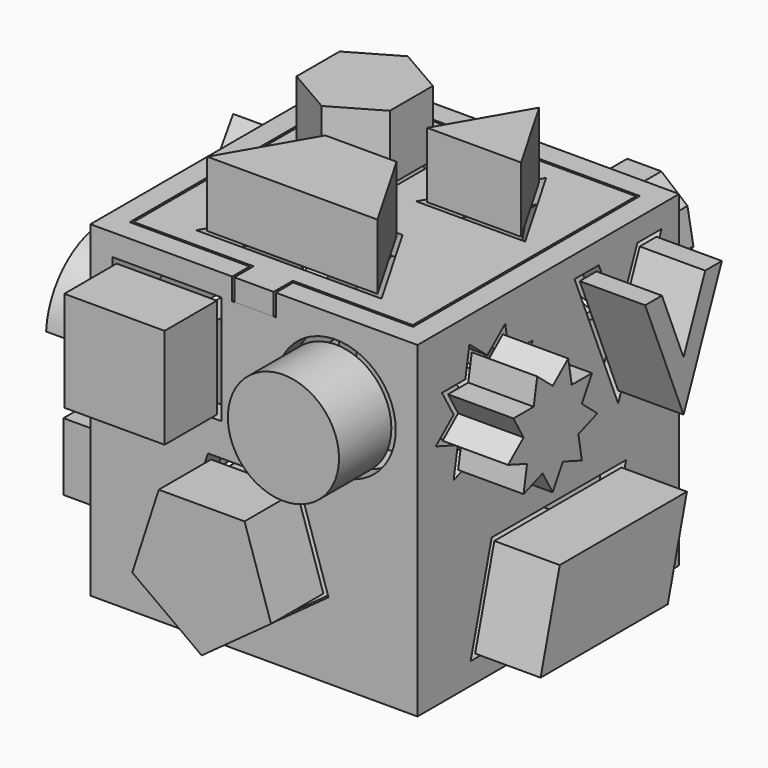
from build123d import *

# Parameters (mm, degrees)
F0_W      = 150
F0_H      = 150
F1_DEPTH  = 150
F2_T      = -10
F3_W      = 1
F3_H      = 10
F5_DEPTH  = 10
F6_DEPTH  = 10
F7_DEPTH  = 25
F8_DEPTH  = 30
F9_W      = 50
F9_H      = 50
F9_W_2    = 46
F9_H_2    = 46
F9_R      = 27.5
F9_R_2    = 25.5
F10_DEPTH = 25
F11_DEPTH = 30
F12_W     = 110
F12_H     = 35
F12_W_2   = 106
F12_H_2   = 31
F13_DEPTH = 25
F14_DEPTH = 30
F16_DEPTH = 25
F17_DEPTH = 30
F19_DEPTH = 25
F20_DEPTH = 30


with BuildPart() as f1:
    # F0 (on Top) → F1 (new body)
    with BuildSketch(Plane.XY):
        with Locations((-75, 75)):
            Rectangle(F0_W, F0_H)
    extrude(amount=F1_DEPTH)

    # F2
    f2_openings = [f1.faces().sort_by_distance(p)[0] for p in [
        (-75, 75, 150),
    ]]
    offset(amount=F2_T, openings=f2_openings)

    # F3 (on face) → F5 (cut)
    with BuildSketch(Plane.XY.offset(150)):
        with Locations((-65.5, 145)):
            Rectangle(F3_W, F3_H)
        Polygon((-75, 140), (-66, 140), (-66, 150), (-84, 150), (-84, 140), align=None)
        with Locations((-84.5, 145)):
            Rectangle(F3_W, F3_H)
        Polygon((-85, 10), (-84, 10), (-84, 11), (-139, 11), (-139, 139), (-84, 139), (-84, 140), (-85, 140), (-140, 140), (-140, 10), align=None)
        Polygon((-75, 10), (-66, 10), (-66, 11), (-11, 11), (-11, 139), (-66, 139), (-66, 140), (-75, 140), (-84, 140), (-84, 139), (-139, 139), (-139, 11), (-84, 11), (-84, 10), align=None)
        Polygon((-65, 10), (-10, 10), (-10, 140), (-65, 140), (-66, 140), (-66, 139), (-11, 139), (-11, 11), (-66, 11), (-66, 10), align=None)
        with Locations((-84.5, 5)):
            Rectangle(F3_W, F3_H)
        Polygon((-66, 0), (-66, 10), (-75, 10), (-84, 10), (-84, 0), align=None)
        with Locations((-65.5, 5)):
            Rectangle(F3_W, F3_H)
    extrude(amount=-F5_DEPTH, mode=Mode.SUBTRACT)

    # F9 (on face) → F10 (cut)
    with BuildSketch(Plane.XZ):
        with Locations((-115, 115)):
            Rectangle(F9_W, F9_H)
        with Locations((-115, 115)):
            Rectangle(F9_W_2, F9_H_2, mode=Mode.SUBTRACT)
        with Locations((-115, 115)):
            Rectangle(F9_W_2, F9_H_2)
        with Locations((-37.5, 112.5)):
            Circle(F9_R)
        with Locations((-37.5, 112.5)):
            Circle(F9_R_2, mode=Mode.SUBTRACT)
        with Locations((-37.5, 112.5)):
            Circle(F9_R_2)
        Polygon((-40.8274777123, 34.8277907313), (-53.8802197449, 75), (-96.1197802551, 75), (-109.1725222877, 34.8277907313), (-75, 10), align=None)
        Polygon((-94.6666951991, 73), (-55.3333048009, 73), (-43.1786187214, 35.5917227538), (-75, 12.472135955), (-106.8213812786, 35.5917227538), align=None, mode=Mode.SUBTRACT)
        Polygon((-43.1786187214, 35.5917227538), (-55.3333048009, 73), (-94.6666951991, 73), (-106.8213812786, 35.5917227538), (-75, 12.472135955), align=None)
    extrude(amount=-F10_DEPTH, mode=Mode.SUBTRACT)

    # F12 (on face) → F13 (cut)
    with BuildSketch(Plane(origin=(-150, 0, 0), x_dir=(0, -1, 0), z_dir=(-1, 0, 0))):
        with Locations((-75, 37.5)):
            Rectangle(F12_W, F12_H)
        with Locations((-75, 37.5)):
            Rectangle(F12_W_2, F12_H_2, mode=Mode.SUBTRACT)
        with Locations((-75, 37.5)):
            Rectangle(F12_W_2, F12_H_2)
        with BuildLine():
            Line((-80, 90), (-10, 90))
            ThreePointArc((-10, 90), (-45, 125), (-80, 90))
        make_face()
        with BuildLine():
            ThreePointArc((-77.939338184, 92), (-45, 123), (-12.060661816, 92))
            Line((-12.060661816, 92), (-77.939338184, 92))
        make_face(mode=Mode.SUBTRACT)
        with BuildLine():
            Line((-77.939338184, 92), (-12.060661816, 92))
            ThreePointArc((-12.060661816, 92), (-45, 123), (-77.939338184, 92))
        make_face()
        Polygon((-98.5904330475, 107.5), (-119.2952165238, 140), (-140, 107.5), (-119.2952165238, 75), align=None)
        Polygon((-137.6286219051, 107.5), (-119.2952165238, 136.2776820066), (-100.9618111424, 107.5), (-119.2952165238, 78.7223179934), align=None, mode=Mode.SUBTRACT)
        Polygon((-100.9618111424, 107.5), (-119.2952165238, 136.2776820066), (-137.6286219051, 107.5), (-119.2952165238, 78.7223179934), align=None)
    extrude(amount=-F13_DEPTH, mode=Mode.SUBTRACT)

    # F15 (on face) → F16 (cut)
    with BuildSketch(Plane(origin=(0, 150, 0), x_dir=(-1, 0, 0), z_dir=(0, 1, 0))):
        Polygon((48.5505035831, 138.4923155196), (31.4494964169, 138.4923155196), (18.3493649054, 127.5), (15.3798061747, 110.6587955583), (23.9303097578, 95.848888922), (40, 90), (56.0696902422, 95.848888922), (64.6201938253, 110.6587955583), (61.6506350946, 127.5), align=None)
        Polygon((25.2983903311, 97.4793038602), (17.4758272165, 111.0283806201), (20.1925748756, 126.4358222275), (32.1774368854, 136.4923155196), (47.8225631146, 136.4923155196), (59.8074251244, 126.4358222275), (62.5241727835, 111.0283806201), (54.7016096689, 97.4793038602), (40, 92.128355545), align=None, mode=Mode.SUBTRACT)
        Polygon((20.1925748756, 126.4358222275), (17.4758272165, 111.0283806201), (25.2983903311, 97.4793038602), (40, 92.128355545), (54.7016096689, 97.4793038602), (62.5241727835, 111.0283806201), (59.8074251244, 126.4358222275), (47.8225631146, 136.4923155196), (32.1774368854, 136.4923155196), align=None)
        Polygon((135, 130), (95, 130), (135, 72.8740797303), align=None)
        Polygon((133, 79.217269335), (98.8419642539, 128), (133, 128), align=None, mode=Mode.SUBTRACT)
        Polygon((82.8579895901, 56.7467110956), (75, 80.9311162925), (67.1420104099, 56.7467110956), (41.7130219297, 56.7467110956), (62.2855057599, 41.7999266863), (54.4275161698, 17.6155214894), (75, 32.5623058987), (95.5724838302, 17.6155214894), (87.7144942401, 41.7999266863), (108.2869780703, 56.7467110956), align=None)
        Polygon((68.5950954659, 54.7467110956), (75, 74.4589803375), (81.4049045341, 54.7467110956), (102.131610996, 54.7467110956), (85.3633532309, 42.5638587088), (91.7682577651, 22.8515894669), (75, 35.0344418537), (58.2317422349, 22.8515894669), (64.6366467691, 42.5638587088), (47.868389004, 54.7467110956), align=None, mode=Mode.SUBTRACT)
        Polygon((81.4049045341, 54.7467110956), (75, 74.4589803375), (68.5950954659, 54.7467110956), (47.868389004, 54.7467110956), (64.6366467691, 42.5638587088), (58.2317422349, 22.8515894669), (75, 35.0344418537), (91.7682577651, 22.8515894669), (85.3633532309, 42.5638587088), (102.131610996, 54.7467110956), align=None)
        Polygon((133, 128), (98.8419642539, 128), (133, 79.217269335), align=None)
    extrude(amount=-F16_DEPTH, mode=Mode.SUBTRACT)

    # F18 (on face) → F19 (cut)
    with BuildSketch(Plane.YZ):
        Polygon((40, 129.58110934), (29.7393957002, 138.1907786236), (27.4135055323, 125), (14.0192378865, 125), (20.7163717094, 113.4002239536), (10.4557674096, 104.79055467), (23.0422618773, 100.20944533), (20.7163717094, 87.0186667064), (33.3028661771, 91.5997760464), (40, 80), (46.6971338229, 91.5997760464), (59.2836282906, 87.0186667064), (56.9577381227, 100.20944533), (69.5442325904, 104.79055467), (59.2836282906, 113.4002239536), (65.9807621135, 125), (52.5864944677, 125), (50.2606042998, 138.1907786236), align=None)
        Polygon((17.4833395016, 123), (29.0917047947, 123), (31.1074762735, 134.4320081404), (40, 126.9702947613), (48.8925237265, 134.4320081404), (50.9082952053, 123), (62.5166604984, 123), (56.7124778519, 112.9468607598), (65.6050015783, 105.4851473807), (54.696706373, 101.5148526193), (56.7124778519, 90.0828444789), (45.8041826465, 94.0531392402), (40, 84), (34.1958173535, 94.0531392402), (23.2875221481, 90.0828444789), (25.303293627, 101.5148526193), (14.3949984217, 105.4851473807), (23.2875221482, 112.9468607598), align=None, mode=Mode.SUBTRACT)
        Polygon((31.1074762735, 134.4320081404), (29.0917047947, 123), (17.4833395016, 123), (23.2875221482, 112.9468607598), (14.3949984217, 105.4851473807), (25.303293627, 101.5148526193), (23.2875221481, 90.0828444789), (34.1958173535, 94.0531392402), (40, 84), (45.8041826465, 94.0531392402), (56.7124778519, 90.0828444789), (54.696706373, 101.5148526193), (65.6050015783, 105.4851473807), (56.7124778519, 112.9468607598), (62.5166604984, 123), (50.9082952053, 123), (48.8925237265, 134.4320081404), (40, 126.9702947613), align=None)
        Polygon((103.9303890065, 140), (90, 140), (115, 79.6446609407), (140, 140), (126.0696109935, 140), (115, 113.2755950093), align=None)
        Polygon((115, 108.0493431498), (127.4059682693, 138), (137.0067884747, 138), (115, 84.8709128002), (92.9932115253, 138), (102.5940317307, 138), align=None, mode=Mode.SUBTRACT)
        Polygon((137.0067884747, 138), (127.4059682693, 138), (115, 108.0493431498), (102.5940317307, 138), (92.9932115253, 138), (115, 84.8709128002), align=None)
        Polygon((42.5, 55), (30.4422863406, 10), (107.5, 10), (119.5577136594, 55), align=None)
        Polygon((33.0487370863, 12), (44.034653976, 53), (116.9512629137, 53), (105.965346024, 12), align=None, mode=Mode.SUBTRACT)
        Polygon((116.9512629137, 53), (44.034653976, 53), (33.0487370863, 12), (105.965346024, 12), align=None)
    extrude(amount=-F19_DEPTH, mode=Mode.SUBTRACT)


with BuildPart() as f6:
    # F3 (on face) → F6 (new body)
    with BuildSketch(Plane.XY.offset(150)):
        Polygon((-75, 140), (-66, 140), (-66, 150), (-84, 150), (-84, 140), align=None)
        Polygon((-75, 10), (-66, 10), (-66, 11), (-11, 11), (-11, 139), (-66, 139), (-66, 140), (-75, 140), (-84, 140), (-84, 139), (-139, 139), (-139, 11), (-84, 11), (-84, 10), align=None)
        Polygon((-66, 0), (-66, 10), (-75, 10), (-84, 10), (-84, 0), align=None)
    extrude(amount=-F6_DEPTH)

    # F4 (on face) → F7 (cut)
    with BuildSketch(Plane.XY.offset(150)):
        Polygon((-92.5, 63.3012701892), (-117.5, 20), (-32.5, 20), (-57.5, 63.3012701892), align=None)
        Polygon((-114.0358983849, 22), (-91.3452994616, 61.3012701892), (-58.6547005384, 61.3012701892), (-35.9641016151, 22), align=None, mode=Mode.SUBTRACT)
        Polygon((-58.6547005384, 61.3012701892), (-91.3452994616, 61.3012701892), (-114.0358983849, 22), (-35.9641016151, 22), align=None)
        Polygon((-83.2346281956, 116.5), (-106.6173140978, 130), (-130, 116.5), (-130, 89.5), (-106.6173140978, 76), (-83.2346281956, 89.5), align=None)
        Polygon((-106.6173140978, 78.3094010768), (-128, 90.6547005384), (-128, 115.3452994616), (-106.6173140978, 127.6905989232), (-85.2346281956, 115.3452994616), (-85.2346281956, 90.6547005384), align=None, mode=Mode.SUBTRACT)
        Polygon((-128, 115.3452994616), (-128, 90.6547005384), (-106.6173140978, 78.3094010768), (-85.2346281956, 90.6547005384), (-85.2346281956, 115.3452994616), (-106.6173140978, 127.6905989232), align=None)
        Polygon((-20, 86.6987298108), (-45, 130), (-70, 86.6987298108), align=None)
        Polygon((-23.4641016151, 88.6987298108), (-66.5358983849, 88.6987298108), (-45, 126), align=None, mode=Mode.SUBTRACT)
        Polygon((-45, 126), (-66.5358983849, 88.6987298108), (-23.4641016151, 88.6987298108), align=None)
    extrude(amount=-F7_DEPTH, mode=Mode.SUBTRACT)


with BuildPart() as f8:
    # F4 (on face) → F8 (new body)
    with BuildSketch(Plane.XY.offset(150)):
        Polygon((-58.6547005384, 61.3012701892), (-91.3452994616, 61.3012701892), (-114.0358983849, 22), (-35.9641016151, 22), align=None)
    extrude(amount=F8_DEPTH)


with BuildPart() as f8b:
    # F4 (on face) → F8, piece 2 (new body)
    with BuildSketch(Plane.XY.offset(150)):
        Polygon((-45, 126), (-66.5358983849, 88.6987298108), (-23.4641016151, 88.6987298108), align=None)
    extrude(amount=F8_DEPTH)


with BuildPart() as f8c:
    # F4 (on face) → F8, piece 3 (new body)
    with BuildSketch(Plane.XY.offset(150)):
        Polygon((-128, 115.3452994616), (-128, 90.6547005384), (-106.6173140978, 78.3094010768), (-85.2346281956, 90.6547005384), (-85.2346281956, 115.3452994616), (-106.6173140978, 127.6905989232), align=None)
    extrude(amount=F8_DEPTH)


with BuildPart() as f11:
    # F9 (on face) → F11 (new body)
    with BuildSketch(Plane.XZ):
        with Locations((-115, 115)):
            Rectangle(F9_W_2, F9_H_2)
    extrude(amount=F11_DEPTH)


with BuildPart() as f11b:
    # F9 (on face) → F11, piece 2 (new body)
    with BuildSketch(Plane.XZ):
        with Locations((-37.5, 112.5)):
            Circle(F9_R_2)
    extrude(amount=F11_DEPTH)


with BuildPart() as f11c:
    # F9 (on face) → F11, piece 3 (new body)
    with BuildSketch(Plane.XZ):
        Polygon((-43.1786187214, 35.5917227538), (-55.3333048009, 73), (-94.6666951991, 73), (-106.8213812786, 35.5917227538), (-75, 12.472135955), align=None)
    extrude(amount=F11_DEPTH)


with BuildPart() as f14:
    # F12 (on face) → F14 (new body)
    with BuildSketch(Plane(origin=(-150, 0, 0), x_dir=(0, -1, 0), z_dir=(-1, 0, 0))):
        Polygon((-100.9618111424, 107.5), (-119.2952165238, 136.2776820066), (-137.6286219051, 107.5), (-119.2952165238, 78.7223179934), align=None)
    extrude(amount=F14_DEPTH)


with BuildPart() as f14b:
    # F12 (on face) → F14, piece 2 (new body)
    with BuildSketch(Plane(origin=(-150, 0, 0), x_dir=(0, -1, 0), z_dir=(-1, 0, 0))):
        with BuildLine():
            Line((-77.939338184, 92), (-12.060661816, 92))
            ThreePointArc((-12.060661816, 92), (-45, 123), (-77.939338184, 92))
        make_face()
    extrude(amount=F14_DEPTH)


with BuildPart() as f14c:
    # F12 (on face) → F14, piece 3 (new body)
    with BuildSketch(Plane(origin=(-150, 0, 0), x_dir=(0, -1, 0), z_dir=(-1, 0, 0))):
        with Locations((-75, 37.5)):
            Rectangle(F12_W_2, F12_H_2)
    extrude(amount=F14_DEPTH)


with BuildPart() as f17:
    # F15 (on face) → F17 (new body)
    with BuildSketch(Plane(origin=(0, 150, 0), x_dir=(-1, 0, 0), z_dir=(0, 1, 0))):
        Polygon((20.1925748756, 126.4358222275), (17.4758272165, 111.0283806201), (25.2983903311, 97.4793038602), (40, 92.128355545), (54.7016096689, 97.4793038602), (62.5241727835, 111.0283806201), (59.8074251244, 126.4358222275), (47.8225631146, 136.4923155196), (32.1774368854, 136.4923155196), align=None)
    extrude(amount=F17_DEPTH)


with BuildPart() as f17b:
    # F15 (on face) → F17, piece 2 (new body)
    with BuildSketch(Plane(origin=(0, 150, 0), x_dir=(-1, 0, 0), z_dir=(0, 1, 0))):
        Polygon((133, 128), (98.8419642539, 128), (133, 79.217269335), align=None)
    extrude(amount=F17_DEPTH)


with BuildPart() as f17c:
    # F15 (on face) → F17, piece 3 (new body)
    with BuildSketch(Plane(origin=(0, 150, 0), x_dir=(-1, 0, 0), z_dir=(0, 1, 0))):
        Polygon((81.4049045341, 54.7467110956), (75, 74.4589803375), (68.5950954659, 54.7467110956), (47.868389004, 54.7467110956), (64.6366467691, 42.5638587088), (58.2317422349, 22.8515894669), (75, 35.0344418537), (91.7682577651, 22.8515894669), (85.3633532309, 42.5638587088), (102.131610996, 54.7467110956), align=None)
    extrude(amount=F17_DEPTH)


with BuildPart() as f20:
    # F18 (on face) → F20 (new body)
    with BuildSketch(Plane.YZ):
        Polygon((31.1074762735, 134.4320081404), (29.0917047947, 123), (17.4833395016, 123), (23.2875221482, 112.9468607598), (14.3949984217, 105.4851473807), (25.303293627, 101.5148526193), (23.2875221481, 90.0828444789), (34.1958173535, 94.0531392402), (40, 84), (45.8041826465, 94.0531392402), (56.7124778519, 90.0828444789), (54.696706373, 101.5148526193), (65.6050015783, 105.4851473807), (56.7124778519, 112.9468607598), (62.5166604984, 123), (50.9082952053, 123), (48.8925237265, 134.4320081404), (40, 126.9702947613), align=None)
    extrude(amount=F20_DEPTH)


with BuildPart() as f20b:
    # F18 (on face) → F20, piece 2 (new body)
    with BuildSketch(Plane.YZ):
        Polygon((137.0067884747, 138), (127.4059682693, 138), (115, 108.0493431498), (102.5940317307, 138), (92.9932115253, 138), (115, 84.8709128002), align=None)
    extrude(amount=F20_DEPTH)


with BuildPart() as f20c:
    # F18 (on face) → F20, piece 3 (new body)
    with BuildSketch(Plane.YZ):
        Polygon((116.9512629137, 53), (44.034653976, 53), (33.0487370863, 12), (105.965346024, 12), align=None)
    extrude(amount=F20_DEPTH)


solid = Compound([f1.part, f6.part, f8.part, f8b.part, f8c.part, f11.part, f11b.part, f11c.part, f14.part, f14b.part, f14c.part, f17.part, f17b.part, f17c.part, f20.part, f20b.part, f20c.part])
